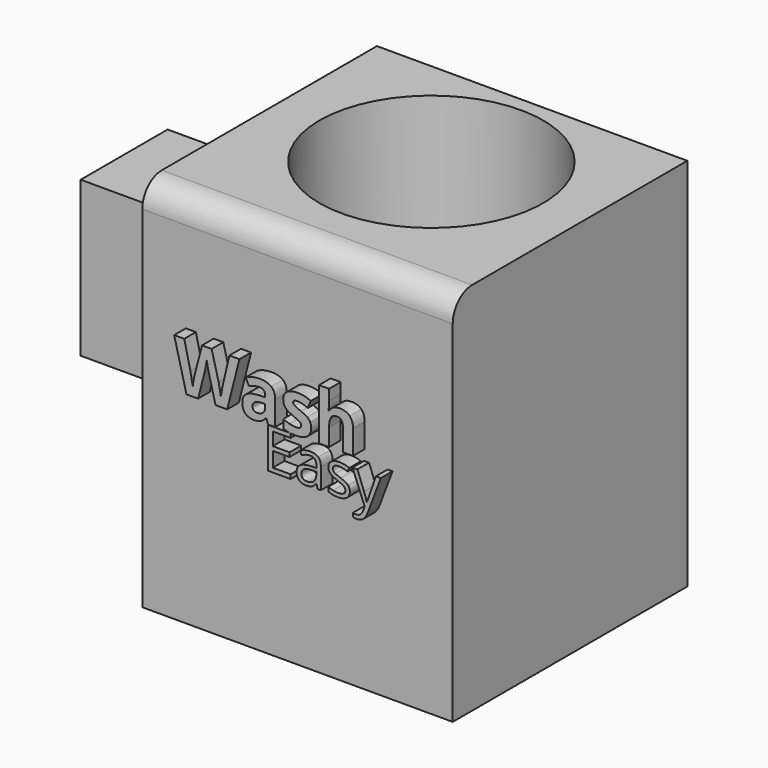
from build123d import *

# Parameters (mm, degrees)
F0_W     = 70.4423598945
F0_H     = 85.0509405136
F1_DEPTH = 66.548
F2_W     = 24.6708989143
F2_H     = 35.1729625836
F3_DEPTH = 17.78
F5_D     = 50.8
F5_DEPTH = 58.42
F5_TIP   = 15.2618597233
F6_R     = 5.5188922036
F8_DEPTH = 3.302


with BuildPart() as f1:
    # F0 (on Front) → F1 (new body)
    with BuildSketch(Plane.XZ):
        with Locations((8.4994938225, -5.4630897939)):
            Rectangle(F0_W, F0_H)
    extrude(amount=F1_DEPTH)

    # F2 (on face) → F3 (join)
    with BuildSketch(Plane(origin=(-26.7216861248, 0, 0), x_dir=(0, -1, 0), z_dir=(-1, 0, 0))):
        with Locations((49.46731776, 12.1255121194)):
            Rectangle(F2_W, F2_H)
    extrude(amount=F3_DEPTH)

    # F5
    with Locations(Plane.XY.offset(37.0623804629)):
        with Locations((8.5464874282, -28.6387670785)):
            Hole(F5_D / 2, depth=F5_DEPTH)
            with Locations((0, 0, -(F5_DEPTH + F5_TIP / 2))):  # 118° drill point
                Cone(0, F5_D / 2, F5_TIP, mode=Mode.SUBTRACT)

    # F6
    f6_edges = [f1.edges().sort_by_distance(p)[0] for p in [
        (8.499494, -66.548, 37.06238),
    ]]
    fillet(f6_edges, radius=F6_R)

    # F7 (on face) → F8 (join)
    with BuildSketch(Plane.XZ.offset(66.548)):
        with BuildLine():
            Line((-7.4595011922, 0), (-4.8200366744, 0))
            Line((-4.8200366744, 0), (-2.0369929443, 10.9335570099))
            Line((-2.0369929443, 10.9335570099), (-4.3199024185, 10.9335570099))
            Line((-4.3199024185, 10.9335570099), (-5.7102277901, 4.9654477556))
            add(Edge.make_bspline(
                [(-6.0093511489, 3.5559784891), (-5.8442350548, 4.4270257099), (-5.7102277901, 4.9654477556)],
                knots=[0, 0, 0, 1, 1, 1], degree=2))
            add(Edge.make_bspline(
                [(-6.2486498359, 2.101042472), (-6.1744672429, 2.6849312684), (-6.0093511489, 3.5559784891)],
                knots=[0, 0, 0, 1, 1, 1], degree=2))
            add(Edge.make_bspline(
                [(-6.4867520295, 3.5523890088), (-6.3300113895, 2.7064681502), (-6.2486498359, 2.101042472)],
                knots=[0, 0, 0, 1, 1, 1], degree=2))
            add(Edge.make_bspline(
                [(-6.7487840917, 4.8075106222), (-6.6434926695, 4.3983098674), (-6.4867520295, 3.5523890088)],
                knots=[0, 0, 0, 1, 1, 1], degree=2))
            Line((-6.7487840917, 4.8075106222), (-8.3425133473, 10.9335570099))
            Line((-8.3425133473, 10.9335570099), (-10.5320963335, 10.9335570099))
            Line((-10.5320963335, 10.9335570099), (-12.1258255891, 4.8075106222))
            add(Edge.make_bspline(
                [(-12.4285384281, 3.4207747309), (-12.2670118144, 4.314555327), (-12.1258255891, 4.8075106222)],
                knots=[0, 0, 0, 1, 1, 1], degree=2))
            add(Edge.make_bspline(
                [(-12.6355317924, 2.101042472), (-12.5900650419, 2.5269941349), (-12.4285384281, 3.4207747309)],
                knots=[0, 0, 0, 1, 1, 1], degree=2))
            add(Edge.make_bspline(
                [(-13.1643818907, 4.9654477556), (-12.7982548996, 3.3118938283), (-12.6355317924, 2.101042472)],
                knots=[0, 0, 0, 1, 1, 1], degree=2))
            Line((-13.1643818907, 4.9654477556), (-14.5642792098, 10.9335570099))
            Line((-14.5642792098, 10.9335570099), (-16.8447956971, 10.9335570099))
            Line((-16.8447956971, 10.9335570099), (-14.0545730064, 0))
            Line((-14.0545730064, 0), (-11.4222874492, 0))
            Line((-11.4222874492, 0), (-9.9506005241, 5.7288105672))
            add(Edge.make_bspline(
                [(-9.6730140471, 7.0030760756), (-9.8524880624, 6.1092954796), (-9.9506005241, 5.7288105672)],
                knots=[0, 0, 0, 1, 1, 1], degree=2))
            add(Edge.make_bspline(
                [(-9.4480732813, 8.3012714527), (-9.4935400319, 7.8968566716), (-9.6730140471, 7.0030760756)],
                knots=[0, 0, 0, 1, 1, 1], degree=2))
            add(Edge.make_bspline(
                [(-9.2207395286, 7.0102550362), (-9.4193574389, 7.9710392646), (-9.4480732813, 8.3012714527)],
                knots=[0, 0, 0, 1, 1, 1], degree=2))
            add(Edge.make_bspline(
                [(-8.9407600648, 5.7431684885), (-9.0221216184, 6.0494708078), (-9.2207395286, 7.0102550362)],
                knots=[0, 0, 0, 1, 1, 1], degree=2))
            Line((-8.9407600648, 5.7431684885), (-7.4595011922, 0))
        make_face()
        with BuildLine():
            Line((4.0268357847, 1.1366687633), (4.4695383557, 0))
            Line((4.4695383557, 0), (6.0608746244, 0))
            Line((6.0608746244, 0), (6.0608746244, 5.5708734338))
            add(Edge.make_bspline(
                [(5.1635045481, 7.7999407034), (6.0608746244, 7.0664902277), (6.0608746244, 5.5708734338)],
                knots=[0, 0, 0, 1, 1, 1], degree=2))
            add(Edge.make_bspline(
                [(2.583864702, 8.5333911791), (4.2661344717, 8.5333911791), (5.1635045481, 7.7999407034)],
                knots=[0, 0, 0, 1, 1, 1], degree=2))
            add(Edge.make_bspline(
                [(-0.6155587434, 7.7772073281), (0.8274123393, 8.5333911791), (2.583864702, 8.5333911791)],
                knots=[0, 0, 0, 1, 1, 1], degree=2))
            Line((-0.6155587434, 7.7772073281), (0.1382321207, 6.2361237837))
            add(Edge.make_bspline(
                [(2.4953241878, 6.8415494619), (1.4926626892, 6.8415494619), (0.1382321207, 6.2361237837)],
                knots=[0, 0, 0, 1, 1, 1], degree=2))
            add(Edge.make_bspline(
                [(3.7971090452, 5.5708734338), (3.7971090452, 6.8415494619), (2.4953241878, 6.8415494619)],
                knots=[0, 0, 0, 1, 1, 1], degree=2))
            Line((3.7971090452, 5.5708734338), (3.7971090452, 5.2047464427))
            Line((3.7971090452, 5.2047464427), (2.344566015, 5.1592796921))
            add(Edge.make_bspline(
                [(-0.4624075838, 4.460527526), (0.4684643088, 5.0922760598), (2.344566015, 5.1592796921)],
                knots=[0, 0, 0, 1, 1, 1], degree=2))
            add(Edge.make_bspline(
                [(-1.3932794763, 2.4982782925), (-1.3932794763, 3.8287789923), (-0.4624075838, 4.460527526)],
                knots=[0, 0, 0, 1, 1, 1], degree=2))
            add(Edge.make_bspline(
                [(-0.7017062708, 0.5384220458), (-1.3932794763, 1.2276022644), (-1.3932794763, 2.4982782925)],
                knots=[0, 0, 0, 1, 1, 1], degree=2))
            add(Edge.make_bspline(
                [(1.1935393304, -0.1507581728), (-0.0101330653, -0.1507581728), (-0.7017062708, 0.5384220458)],
                knots=[0, 0, 0, 1, 1, 1], degree=2))
            add(Edge.make_bspline(
                [(2.7824826122, 0.1304177844), (2.1722709603, -0.1507581728), (1.1935393304, -0.1507581728)],
                knots=[0, 0, 0, 1, 1, 1], degree=2))
            add(Edge.make_bspline(
                [(3.967011113, 1.1366687633), (3.3926942641, 0.4115937417), (2.7824826122, 0.1304177844)],
                knots=[0, 0, 0, 1, 1, 1], degree=2))
            Line((3.967011113, 1.1366687633), (4.0268357847, 1.1366687633))
        make_face()
        with BuildLine():
            Line((2.9140968901, 3.8431369135), (3.7971090452, 3.8742457428))
            Line((3.7971090452, 3.8742457428), (3.7971090452, 3.1850655242))
            add(Edge.make_bspline(
                [(3.3221011515, 1.9742141679), (3.7971090452, 2.4312746601), (3.7971090452, 3.1850655242)],
                knots=[0, 0, 0, 1, 1, 1], degree=2))
            add(Edge.make_bspline(
                [(2.0526216168, 1.5171536757), (2.8470932577, 1.5171536757), (3.3221011515, 1.9742141679)],
                knots=[0, 0, 0, 1, 1, 1], degree=2))
            add(Edge.make_bspline(
                [(0.9470616828, 2.4839203713), (0.9470616828, 1.5171536757), (2.0526216168, 1.5171536757)],
                knots=[0, 0, 0, 1, 1, 1], degree=2))
            add(Edge.make_bspline(
                [(1.4328380174, 3.4853853764), (0.9470616828, 3.1563496818), (0.9470616828, 2.4839203713)],
                knots=[0, 0, 0, 1, 1, 1], degree=2))
            add(Edge.make_bspline(
                [(2.9140968901, 3.8431369135), (1.9186143521, 3.8144210711), (1.4328380174, 3.4853853764)],
                knots=[0, 0, 0, 1, 1, 1], degree=2))
        make_face(mode=Mode.SUBTRACT)
        with BuildLine():
            add(Edge.make_bspline(
                [(14.2448897204, 2.4839203713), (14.2448897204, 1.1964934351), (13.3511091244, 0.5228676311)],
                knots=[0, 0, 0, 1, 1, 1], degree=2))
            add(Edge.make_bspline(
                [(14.0271279153, 3.5523890088), (14.2448897204, 3.1037039706), (14.2448897204, 2.4839203713)],
                knots=[0, 0, 0, 1, 1, 1], degree=2))
            add(Edge.make_bspline(
                [(13.3535021113, 4.3444676628), (13.8093661101, 4.001074047), (14.0271279153, 3.5523890088)],
                knots=[0, 0, 0, 1, 1, 1], degree=2))
            add(Edge.make_bspline(
                [(11.9189064826, 5.0850970992), (12.8976381125, 4.6878612787), (13.3535021113, 4.3444676628)],
                knots=[0, 0, 0, 1, 1, 1], degree=2))
            add(Edge.make_bspline(
                [(10.492686308, 5.7503474491), (10.8181325223, 5.5254066833), (11.9189064826, 5.0850970992)],
                knots=[0, 0, 0, 1, 1, 1], degree=2))
            add(Edge.make_bspline(
                [(10.1672400936, 6.2815905342), (10.1672400936, 5.9752882149), (10.492686308, 5.7503474491)],
                knots=[0, 0, 0, 1, 1, 1], degree=2))
            add(Edge.make_bspline(
                [(11.1770805529, 6.8271915407), (10.1672400936, 6.8271915407), (10.1672400936, 6.2815905342)],
                knots=[0, 0, 0, 1, 1, 1], degree=2))
            add(Edge.make_bspline(
                [(12.2922124344, 6.654896486), (11.746611428, 6.8271915407), (11.1770805529, 6.8271915407)],
                knots=[0, 0, 0, 1, 1, 1], degree=2))
            add(Edge.make_bspline(
                [(13.4671689876, 6.2145869019), (12.8378134408, 6.4826014313), (12.2922124344, 6.654896486)],
                knots=[0, 0, 0, 1, 1, 1], degree=2))
            Line((13.4671689876, 6.2145869019), (14.1539562194, 7.8585688817))
            add(Edge.make_bspline(
                [(11.2153683428, 8.516640271), (12.7253430579, 8.516640271), (14.1539562194, 7.8585688817)],
                knots=[0, 0, 0, 1, 1, 1], degree=2))
            add(Edge.make_bspline(
                [(8.7661462811, 7.9076251125), (9.6288180478, 8.516640271), (11.2153683428, 8.516640271)],
                knots=[0, 0, 0, 1, 1, 1], degree=2))
            add(Edge.make_bspline(
                [(7.9034745144, 6.1834780726), (7.9034745144, 7.2986099541), (8.7661462811, 7.9076251125)],
                knots=[0, 0, 0, 1, 1, 1], degree=2))
            add(Edge.make_bspline(
                [(8.1080748918, 5.0898830729), (7.9034745144, 5.5349786308), (7.9034745144, 6.1834780726)],
                knots=[0, 0, 0, 1, 1, 1], degree=2))
            add(Edge.make_bspline(
                [(8.7661462811, 4.3001974057), (8.3126752692, 4.644787515), (8.1080748918, 5.0898830729)],
                knots=[0, 0, 0, 1, 1, 1], degree=2))
            add(Edge.make_bspline(
                [(10.1839910017, 3.5511925154), (9.219617293, 3.9556072964), (8.7661462811, 4.3001974057)],
                knots=[0, 0, 0, 1, 1, 1], degree=2))
            add(Edge.make_bspline(
                [(11.2596385999, 3.0558442332), (10.8564203122, 3.2688200647), (10.1839910017, 3.5511925154)],
                knots=[0, 0, 0, 1, 1, 1], degree=2))
            add(Edge.make_bspline(
                [(11.8279729815, 2.6741628274), (11.6628568875, 2.8428684018), (11.2596385999, 3.0558442332)],
                knots=[0, 0, 0, 1, 1, 1], degree=2))
            add(Edge.make_bspline(
                [(11.9930890756, 2.2350497368), (11.9930890756, 2.5054572531), (11.8279729815, 2.6741628274)],
                knots=[0, 0, 0, 1, 1, 1], degree=2))
            add(Edge.make_bspline(
                [(10.75112889, 1.5171536757), (11.9930890756, 1.5171536757), (11.9930890756, 2.2350497368)],
                knots=[0, 0, 0, 1, 1, 1], degree=2))
            add(Edge.make_bspline(
                [(9.348838584, 1.7193610662), (10.1457032118, 1.5171536757), (10.75112889, 1.5171536757)],
                knots=[0, 0, 0, 1, 1, 1], degree=2))
            add(Edge.make_bspline(
                [(7.9178324357, 2.2206918155), (8.5519739563, 1.9215684568), (9.348838584, 1.7193610662)],
                knots=[0, 0, 0, 1, 1, 1], degree=2))
            Line((7.9178324357, 2.2206918155), (7.9178324357, 0.3374111487))
            add(Edge.make_bspline(
                [(9.1215048314, -0.0263228556), (8.4777913633, 0.0981124617), (7.9178324357, 0.3374111487)],
                knots=[0, 0, 0, 1, 1, 1], degree=2))
            add(Edge.make_bspline(
                [(9.4406571307, -0.078178505), (9.2735997579, -0.0557241053), (9.1215048314, -0.0263228556)],
                knots=[0.763722628, 0.763722628, 0.763722628, 1, 1, 1], degree=2))
            Line((9.4406571307, -0.078178505), (9.5784455579, -0.078178505))
            Line((9.5784455579, -0.078178505), (9.5784455579, -0.0952291244))
            add(Edge.make_bspline(
                [(10.676946297, -0.1507581728), (10.0678954137, -0.1507581728), (9.5784455579, -0.0952291244)],
                knots=[0, 0, 0, 0.6680181862, 0.6680181862, 0.6680181862], degree=2))
            add(Edge.make_bspline(
                [(13.3511091244, 0.5228676311), (12.4573285284, -0.1507581728), (10.676946297, -0.1507581728)],
                knots=[0, 0, 0, 1, 1, 1], degree=2))
        make_face()
        with BuildLine():
            Line((9.5784455579, -1.0243388737), (9.5784455579, -0.0952291244))
            add(Edge.make_bspline(
                [(9.5784455579, -0.0952291244), (9.5083239262, -0.0872736874), (9.4406571307, -0.078178505)],
                knots=[0.6680181862, 0.6680181862, 0.6680181862, 0.763722628, 0.763722628, 0.763722628], degree=2))
            Line((9.4406571307, -0.078178505), (4.4727878057, -0.078178505))
            Line((4.4727878057, -0.078178505), (4.4727878057, -9.237091057))
            Line((4.4727878057, -9.237091057), (9.5784455579, -9.237091057))
            Line((9.5784455579, -9.237091057), (9.5784455579, -8.2849169572))
            Line((9.5784455579, -8.2849169572), (5.5372182204, -8.2849169572))
            Line((5.5372182204, -8.2849169572), (5.5372182204, -4.9152229322))
            Line((5.5372182204, -4.9152229322), (9.3338871575, -4.9152229322))
            Line((9.3338871575, -4.9152229322), (9.3338871575, -3.9750762947))
            Line((9.3338871575, -3.9750762947), (5.5372182204, -3.9750762947))
            Line((5.5372182204, -3.9750762947), (5.5372182204, -1.0243388737))
            Line((5.5372182204, -1.0243388737), (9.5784455579, -1.0243388737))
        make_face()
        with BuildLine():
            add(Edge.make_bspline(
                [(9.5784455579, -0.0952291244), (9.5083239262, -0.0872736874), (9.4406571307, -0.078178505)],
                knots=[0.6680181862, 0.6680181862, 0.6680181862, 0.763722628, 0.763722628, 0.763722628], degree=2))
            Line((9.5784455579, -0.0952291244), (9.5784455579, -0.078178505))
            Line((9.5784455579, -0.078178505), (9.4406571307, -0.078178505))
        make_face()
        with BuildLine():
            Line((21.4597451341, 0), (23.7402616214, 0))
            Line((23.7402616214, 0), (23.7402616214, 5.4512240903))
            add(Edge.make_bspline(
                [(22.9780953032, 7.724561617), (23.7402616214, 6.9324829629), (23.7402616214, 5.4512240903)],
                knots=[0, 0, 0, 1, 1, 1], degree=2))
            add(Edge.make_bspline(
                [(20.741849073, 8.516640271), (22.215928985, 8.516640271), (22.9780953032, 7.724561617)],
                knots=[0, 0, 0, 1, 1, 1], degree=2))
            add(Edge.make_bspline(
                [(18.3177533735, 7.2914309935), (19.0811161851, 8.516640271), (20.741849073, 8.516640271)],
                knots=[0, 0, 0, 1, 1, 1], degree=2))
            Line((18.3177533735, 7.2914309935), (18.19810403, 7.2914309935))
            Line((18.19810403, 7.2914309935), (18.2507497411, 7.963860304))
            add(Edge.make_bspline(
                [(18.3033954523, 9.2656451614), (18.3033954523, 8.9880586844), (18.2507497411, 7.963860304)],
                knots=[0, 0, 0, 1, 1, 1], degree=2))
            Line((18.3033954523, 9.2656451614), (18.3033954523, 11.6370951497))
            Line((18.3033954523, 11.6370951497), (16.022878965, 11.6370951497))
            Line((16.022878965, 11.6370951497), (16.022878965, 0))
            Line((16.022878965, 0), (18.3033954523, 0))
            Line((18.3033954523, 0), (18.3033954523, 3.9340704146))
            add(Edge.make_bspline(
                [(18.7293471152, 6.0422918472), (18.3033954523, 5.3913994185), (18.3033954523, 3.9340704146)],
                knots=[0, 0, 0, 1, 1, 1], degree=2))
            add(Edge.make_bspline(
                [(20.1124935261, 6.6931842759), (19.1552987781, 6.6931842759), (18.7293471152, 6.0422918472)],
                knots=[0, 0, 0, 1, 1, 1], degree=2))
            add(Edge.make_bspline(
                [(21.4597451341, 4.8840862021), (21.4597451341, 6.6931842759), (20.1124935261, 6.6931842759)],
                knots=[0, 0, 0, 1, 1, 1], degree=2))
            Line((21.4597451341, 4.8840862021), (21.4597451341, 0))
        make_face()
        with BuildLine():
            Line((15.4658883605, -8.2588574555), (15.6723597969, -9.237091057))
            Line((15.6723597969, -9.237091057), (16.444121962, -9.237091057))
            Line((16.444121962, -9.237091057), (16.444121962, -4.5503899087))
            add(Edge.make_bspline(
                [(15.851769443, -2.8034010076), (16.444121962, -3.3476436773), (16.444121962, -4.5503899087)],
                knots=[0, 0, 0, 1, 1, 1], degree=2))
            add(Edge.make_bspline(
                [(14.0326157681, -2.2591583379), (15.2594169241, -2.2591583379), (15.851769443, -2.8034010076)],
                knots=[0, 0, 0, 1, 1, 1], degree=2))
            add(Edge.make_bspline(
                [(12.8188443629, -2.415515348), (13.4232243442, -2.2591583379), (14.0326157681, -2.2591583379)],
                knots=[0, 0, 0, 1, 1, 1], degree=2))
            add(Edge.make_bspline(
                [(11.7073063874, -2.8464994143), (12.2144643816, -2.5718723581), (12.8188443629, -2.415515348)],
                knots=[0, 0, 0, 1, 1, 1], degree=2))
            Line((11.7073063874, -2.8464994143), (12.0280387158, -3.642316504))
            add(Edge.make_bspline(
                [(13.9684693024, -3.1171173163), (13.110510324, -3.1171173163), (12.0280387158, -3.642316504)],
                knots=[0, 0, 0, 1, 1, 1], degree=2))
            add(Edge.make_bspline(
                [(15.0810095664, -3.5019961104), (14.7342177364, -3.1171173163), (13.9684693024, -3.1171173163)],
                knots=[0, 0, 0, 1, 1, 1], degree=2))
            add(Edge.make_bspline(
                [(15.4278013965, -4.6947194565), (15.4278013965, -3.8868749044), (15.0810095664, -3.5019961104)],
                knots=[0, 0, 0, 1, 1, 1], degree=2))
            Line((15.4278013965, -4.6947194565), (15.4278013965, -5.1216943686))
            Line((15.4278013965, -5.1216943686), (14.2631421291, -5.1597813326))
            add(Edge.make_bspline(
                [(10.9375487993, -7.3387565885), (10.9375487993, -5.2600101852), (14.2631421291, -5.1597813326)],
                knots=[0, 0, 0, 1, 1, 1], degree=2))
            add(Edge.make_bspline(
                [(11.5168715674, -8.8361756465), (10.9375487993, -8.3089718818), (10.9375487993, -7.3387565885)],
                knots=[0, 0, 0, 1, 1, 1], degree=2))
            add(Edge.make_bspline(
                [(13.1165240552, -9.3633794113), (12.0961943356, -9.3633794113), (11.5168715674, -8.8361756465)],
                knots=[0, 0, 0, 1, 1, 1], degree=2))
            add(Edge.make_bspline(
                [(14.392437349, -9.1338553388), (13.8822724892, -9.3633794113), (13.1165240552, -9.3633794113)],
                knots=[0, 0, 0, 1, 1, 1], degree=2))
            add(Edge.make_bspline(
                [(15.4157739342, -8.2588574555), (14.9026022088, -8.9043312663), (14.392437349, -9.1338553388)],
                knots=[0, 0, 0, 1, 1, 1], degree=2))
            Line((15.4157739342, -8.2588574555), (15.4658883605, -8.2588574555))
        make_face()
        with BuildLine():
            add(Edge.make_bspline(
                [(13.3229954916, -8.5034158559), (14.2952153619, -8.5034158559), (14.8494809169, -7.9712006485)],
                knots=[0, 0, 0, 1, 1, 1], degree=2))
            add(Edge.make_bspline(
                [(12.3688168147, -8.2097453177), (12.7095949136, -8.5034158559), (13.3229954916, -8.5034158559)],
                knots=[0, 0, 0, 1, 1, 1], degree=2))
            add(Edge.make_bspline(
                [(12.0280387158, -7.3507840508), (12.0280387158, -7.9160747795), (12.3688168147, -8.2097453177)],
                knots=[0, 0, 0, 1, 1, 1], degree=2))
            add(Edge.make_bspline(
                [(12.5752882511, -6.2893605016), (12.0280387158, -6.631140889), (12.0280387158, -7.3507840508)],
                knots=[0, 0, 0, 1, 1, 1], degree=2))
            add(Edge.make_bspline(
                [(14.3633709817, -5.903479419), (13.1225377863, -5.9475801142), (12.5752882511, -6.2893605016)],
                knots=[0, 0, 0, 1, 1, 1], degree=2))
            Line((14.3633709817, -5.903479419), (15.4037464718, -5.8613833009))
            Line((15.4037464718, -5.8613833009), (15.4037464718, -6.4807976101))
            add(Edge.make_bspline(
                [(14.8494809169, -7.9712006485), (15.4037464718, -7.4389854411), (15.4037464718, -6.4807976101)],
                knots=[0, 0, 0, 1, 1, 1], degree=2))
        make_face(mode=Mode.SUBTRACT)
        with BuildLine():
            add(Edge.make_bspline(
                [(23.0131209624, -7.3648160902), (23.0131209624, -8.3230039212), (22.2994915318, -8.8431916662)],
                knots=[0, 0, 0, 1, 1, 1], degree=2))
            add(Edge.make_bspline(
                [(22.5841414732, -6.2302254786), (23.0131209624, -6.6812553153), (23.0131209624, -7.3648160902)],
                knots=[0, 0, 0, 1, 1, 1], degree=2))
            add(Edge.make_bspline(
                [(20.9343745591, -5.3341795362), (22.155161984, -5.7791956418), (22.5841414732, -6.2302254786)],
                knots=[0, 0, 0, 1, 1, 1], degree=2))
            add(Edge.make_bspline(
                [(19.7316283278, -4.8260192534), (20.0443423479, -5.0014197455), (20.9343745591, -5.3341795362)],
                knots=[0, 0, 0, 1, 1, 1], degree=2))
            add(Edge.make_bspline(
                [(19.2775916254, -4.4571770758), (19.4189143076, -4.6506187613), (19.7316283278, -4.8260192534)],
                knots=[0, 0, 0, 1, 1, 1], degree=2))
            add(Edge.make_bspline(
                [(19.1362689432, -3.987103757), (19.1362689432, -4.2637353902), (19.2775916254, -4.4571770758)],
                knots=[0, 0, 0, 1, 1, 1], degree=2))
            add(Edge.make_bspline(
                [(19.5121271405, -3.3486459659), (19.1362689432, -3.5801746154), (19.1362689432, -3.987103757)],
                knots=[0, 0, 0, 1, 1, 1], degree=2))
            add(Edge.make_bspline(
                [(20.6276742701, -3.1171173163), (19.8879853378, -3.1171173163), (19.5121271405, -3.3486459659)],
                knots=[0, 0, 0, 1, 1, 1], degree=2))
            add(Edge.make_bspline(
                [(22.499949237, -3.5420876514), (21.4675920551, -3.1171173163), (20.6276742701, -3.1171173163)],
                knots=[0, 0, 0, 1, 1, 1], degree=2))
            Line((22.499949237, -3.5420876514), (22.8707959917, -2.6961561353))
            add(Edge.make_bspline(
                [(20.7018436211, -2.2451262986), (21.810374731, -2.2451262986), (22.8707959917, -2.6961561353)],
                knots=[0, 0, 0, 1, 1, 1], degree=2))
            add(Edge.make_bspline(
                [(18.8295686542, -2.7312362338), (19.5131294291, -2.2451262986), (20.7018436211, -2.2451262986)],
                knots=[0, 0, 0, 1, 1, 1], degree=2))
            add(Edge.make_bspline(
                [(18.1460078794, -4.0572639539), (18.1460078794, -3.2173461689), (18.8295686542, -2.7312362338)],
                knots=[0, 0, 0, 1, 1, 1], degree=2))
            add(Edge.make_bspline(
                [(18.343458719, -4.8641062174), (18.1460078794, -4.5263349841), (18.1460078794, -4.0572639539)],
                knots=[0, 0, 0, 1, 1, 1], degree=2))
            add(Edge.make_bspline(
                [(18.9448318347, -5.4684861987), (18.5409095587, -5.2018774507), (18.343458719, -4.8641062174)],
                knots=[0, 0, 0, 1, 1, 1], degree=2))
            add(Edge.make_bspline(
                [(20.3069419418, -6.0919096619), (19.3487541108, -5.7350949466), (18.9448318347, -5.4684861987)],
                knots=[0, 0, 0, 1, 1, 1], degree=2))
            add(Edge.make_bspline(
                [(21.6640406062, -6.7654475515), (21.3172487761, -6.4807976101), (20.3069419418, -6.0919096619)],
                knots=[0, 0, 0, 1, 1, 1], degree=2))
            add(Edge.make_bspline(
                [(22.0108324362, -7.4510129034), (22.0108324362, -7.0500974929), (21.6640406062, -6.7654475515)],
                knots=[0, 0, 0, 1, 1, 1], degree=2))
            add(Edge.make_bspline(
                [(21.5728323503, -8.2438231276), (22.0108324362, -7.9842303993), (22.0108324362, -7.4510129034)],
                knots=[0, 0, 0, 1, 1, 1], degree=2))
            add(Edge.make_bspline(
                [(20.3209739811, -8.5034158559), (21.1348322644, -8.5034158559), (21.5728323503, -8.2438231276)],
                knots=[0, 0, 0, 1, 1, 1], degree=2))
            add(Edge.make_bspline(
                [(19.2274771991, -8.3600885966), (19.7937702164, -8.5034158559), (20.3209739811, -8.5034158559)],
                knots=[0, 0, 0, 1, 1, 1], degree=2))
            add(Edge.make_bspline(
                [(18.1660536499, -7.9661892058), (18.6611841818, -8.2167613374), (19.2274771991, -8.3600885966)],
                knots=[0, 0, 0, 1, 1, 1], degree=2))
            Line((18.1660536499, -7.9661892058), (18.1660536499, -8.930390768))
            add(Edge.make_bspline(
                [(20.2949144795, -9.3633794113), (18.9297975068, -9.3633794113), (18.1660536499, -8.930390768)],
                knots=[0, 0, 0, 1, 1, 1], degree=2))
            add(Edge.make_bspline(
                [(22.2994915318, -8.8431916662), (21.5858621011, -9.3633794113), (20.2949144795, -9.3633794113)],
                knots=[0, 0, 0, 1, 1, 1], degree=2))
        make_face()
        with BuildLine():
            Line((24.7310434962, -2.3714146529), (23.6144940781, -2.3714146529))
            Line((23.6144940781, -2.3714146529), (26.3848195644, -9.275178021))
            Line((26.3848195644, -9.275178021), (26.0019453474, -10.2514070455))
            add(Edge.make_bspline(
                [(24.4724530565, -11.4541532768), (25.5449017794, -11.4541532768), (26.0019453474, -10.2514070455)],
                knots=[0, 0, 0, 1, 1, 1], degree=2))
            add(Edge.make_bspline(
                [(23.7026954684, -11.3799839259), (24.0474827214, -11.4541532768), (24.4724530565, -11.4541532768)],
                knots=[0, 0, 0, 1, 1, 1], degree=2))
            Line((23.7026954684, -11.3799839259), (23.7026954684, -12.2118834026))
            add(Edge.make_bspline(
                [(24.6428421059, -12.3201305634), (24.1657527675, -12.3201305634), (23.7026954684, -12.2118834026)],
                knots=[0, 0, 0, 1, 1, 1], degree=2))
            add(Edge.make_bspline(
                [(26.0801238524, -11.8340206283), (25.4947873531, -12.3201305634), (24.6428421059, -12.3201305634)],
                knots=[0, 0, 0, 1, 1, 1], degree=2))
            add(Edge.make_bspline(
                [(27.1044627261, -10.1892651568), (26.6654603517, -11.3479106931), (26.0801238524, -11.8340206283)],
                knots=[0, 0, 0, 1, 1, 1], degree=2))
            Line((27.1044627261, -10.1892651568), (30.0552001471, -2.3714146529))
            Line((30.0552001471, -2.3714146529), (28.940655306, -2.3714146529))
            add(Edge.make_bspline(
                [(27.2387693886, -7.128275998), (27.4993644054, -6.3545092558), (28.940655306, -2.3714146529)],
                knots=[0, 0, 0, 1, 1, 1], degree=2))
            add(Edge.make_bspline(
                [(26.8979912897, -8.2227750685), (26.9781743718, -7.9020427402), (27.2387693886, -7.128275998)],
                knots=[0, 0, 0, 1, 1, 1], degree=2))
            Line((26.8979912897, -8.2227750685), (26.8478768634, -8.2227750685))
            add(Edge.make_bspline(
                [(26.2344762854, -6.286353636), (26.7276022403, -7.627415684), (26.8478768634, -8.2227750685)],
                knots=[0, 0, 0, 1, 1, 1], degree=2))
            Line((26.2344762854, -6.286353636), (24.7310434962, -2.3714146529))
        make_face()
    extrude(amount=F8_DEPTH)


solid = f1.part
